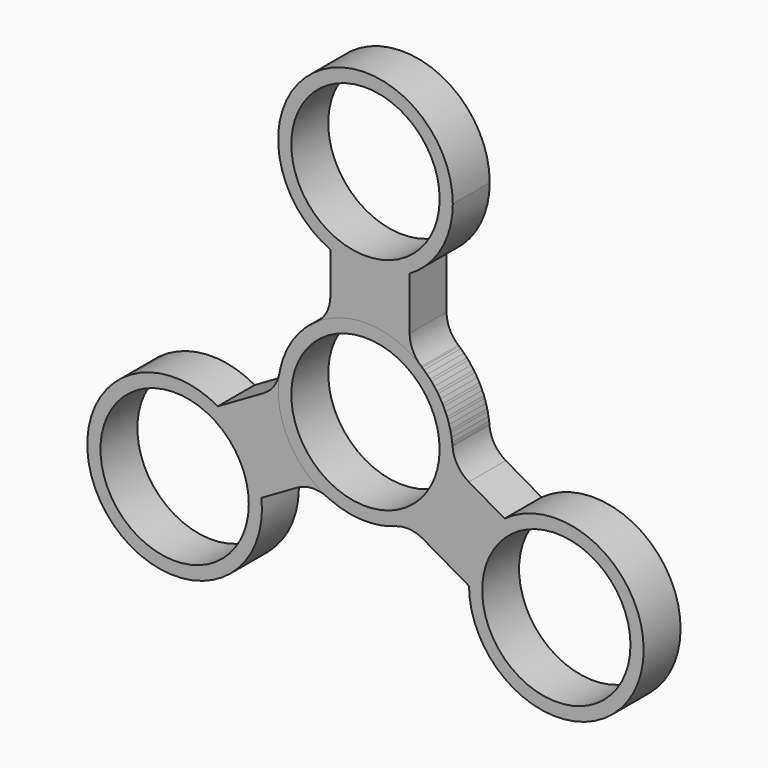
from build123d import *

# Parameters (mm, degrees)
F0_R     = 11.25
F1_DEPTH = 7
F2_COUNT = 3
F3_R     = 5


with BuildPart() as f1:
    # F0 (on Front) → F1 (new body)
    with BuildSketch(Plane.XZ):
        with BuildLine():
            ThreePointArc((-5.327636, 12.131727), (0.771314, 13.227531), (6.701566, 11.430289))
            Line((6.701566, 11.430289), (6.701566, 22.003513))
            ThreePointArc((6.701566, 22.003513), (0.771314, 20.206271), (-5.327636, 21.302076))
            Line((-5.327636, 21.302076), (-5.327636, 12.131727))
        make_face()
        with BuildLine():
            ThreePointArc((-5.327636, 21.302076), (0.771314, 20.206271), (6.701566, 22.003513))
            ThreePointArc((6.701566, 22.003513), (11.496918, 26.847197), (13.25, 33.433802))
            ThreePointArc((13.25, 33.433802), (-7.244699, 44.527802), (-5.327636, 21.302076))
        make_face()
        with Locations((0, 33.433802)):
            Circle(F0_R, mode=Mode.SUBTRACT)
        with BuildLine():
            ThreePointArc((-5.327636, 12.131727), (-7.244699, -11.094), (13.25, 0))
            ThreePointArc((13.25, 0), (11.496918, 6.586606), (6.701566, 11.430289))
            ThreePointArc((6.701566, 11.430289), (0.771314, 13.227531), (-5.327636, 12.131727))
        make_face()
        Circle(F0_R, mode=Mode.SUBTRACT)
    extrude(amount=F1_DEPTH)

    # F3
    f3_edges = [f1.edges().sort_by_distance(p)[0] for p in [
        (6.701566, -3.5, 11.430289),
        (-5.327636, -3.5, 12.131727),
    ]]
    fillet(f3_edges, radius=F3_R)


with BuildPart() as f2_1:
    # F2: instance of F1
    add(f1.part.rotate(Axis((0, -7, 0), (0, -1, 0)), 1 * 360 / F2_COUNT))


with BuildPart() as f2_2:
    # F2: instance of F1
    add(f1.part.rotate(Axis((0, -7, 0), (0, -1, 0)), 2 * 360 / F2_COUNT))


solid = Compound([f1.part, f2_1.part, f2_2.part])
